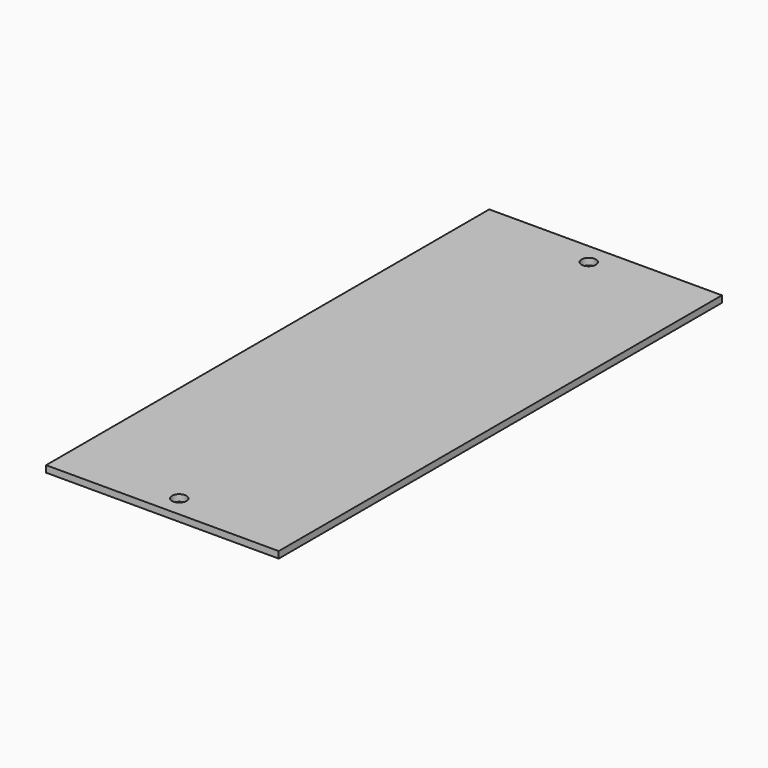
from build123d import *

# Parameters (mm, degrees)
F0_W     = 105
F0_H     = 125
F0_R     = 3.25
F1_DEPTH = 3


with BuildPart() as f1:
    # F0 (on Top) → F1 (new body)
    with BuildSketch(Plane.XY):
        with Locations((52.5, 62.5)):
            Rectangle(F0_W, F0_H)
        with Locations((52.5, 9.5)):
            Circle(F0_R, mode=Mode.SUBTRACT)
        with Locations((52.5, 187.5)):
            Rectangle(F0_W, F0_H)
        with Locations((52.5, 240.5)):
            Circle(F0_R, mode=Mode.SUBTRACT)
    extrude(amount=F1_DEPTH)


solid = f1.part
